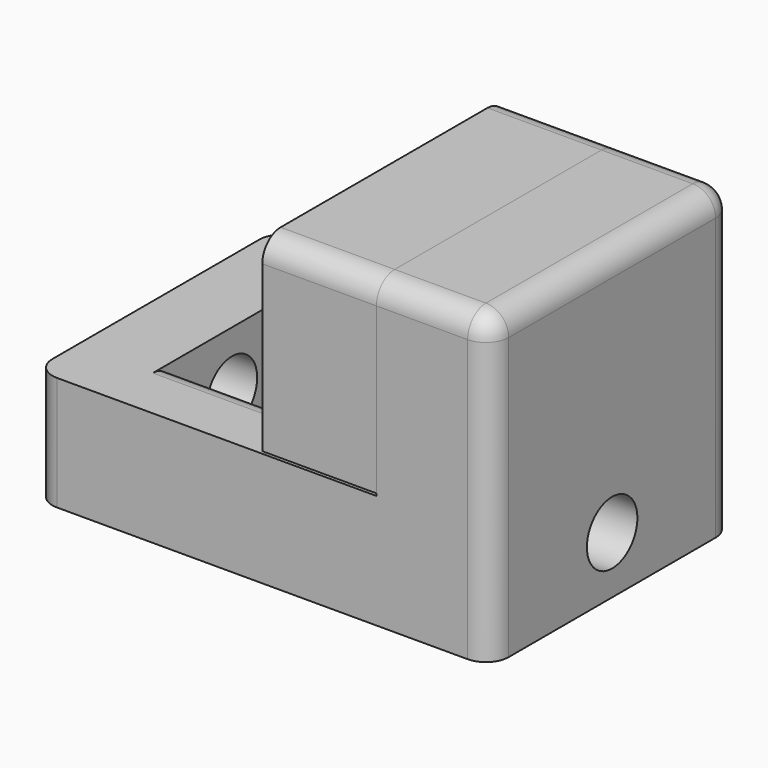
from build123d import *

# Parameters (mm, degrees)
F0_W      = 60
F0_H      = 40
F1_DEPTH  = 15
F2_W      = 15
F2_H      = 40
F3_DEPTH  = 25
F4_W      = 35
F4_H      = 20
F5_DEPTH  = 15.001
F6_R      = 4.15
F7_DEPTH  = 60.001
F9_DEPTH  = 15
F11_DEPTH = 30.001
F12_R     = 3.5
F13_DEPTH = 30.001
F14_SIZE  = 2
F15_R     = 3
F15_2_R   = 3


with BuildPart() as f1:
    # F0 (on Top) → F1 (new body)
    with BuildSketch(Plane.XY):
        with Locations((-30, 0)):
            Rectangle(F0_W, F0_H)
    extrude(amount=F1_DEPTH)

    # F2 (on face) → F3 (join)
    with BuildSketch(Plane.XY.offset(15)):
        with Locations((-7.5, 0)):
            Rectangle(F2_W, F2_H)
    extrude(amount=F3_DEPTH)

    # F4 (on face) → F5 (cut, through all)
    with BuildSketch(Plane.XY.offset(15)):
        with Locations((-32.5, 0)):
            Rectangle(F4_W, F4_H)
    extrude(amount=-F5_DEPTH, mode=Mode.SUBTRACT)

    # F6 (on face) → F7 (cut, through all)
    with BuildSketch(Plane(origin=(-60, 0, 0), x_dir=(0, -1, 0), z_dir=(-1, 0, 0))):
        with Locations((0, 7.5)):
            Circle(F6_R)
    extrude(amount=-F7_DEPTH, mode=Mode.SUBTRACT)

    # F15
    f15_edges = [f1.edges().sort_by_distance(p)[0] for p in [
        (0, -20, 20),
        (-7.5, -20, 40),
        (0, 0, 40),
        (0, 20, 20),
        (-7.5, 20, 40),
        (-60, -20, 7.5),
        (-60, 20, 7.5),
        (-32.5, -10, 15),
        (-32.5, 10, 15),
    ]]
    fillet(f15_edges, radius=F15_R)


with BuildPart() as f9:
    # F8 (on face) → F9 (new body)
    with BuildSketch(Plane(origin=(-15, 0, 0), x_dir=(0, -1, 0), z_dir=(-1, 0, 0))):
        Polygon((20, 40), (-20, 40), (-20, 15), (-10, 15), (-10, 0), (10, 0), (10, 15), (20, 15), align=None)
    extrude(amount=F9_DEPTH)

    # F10 (on face) → F11 (cut, through all)
    with BuildSketch(Plane(origin=(-30, 0, 0), x_dir=(0, -1, 0), z_dir=(-1, 0, 0))):
        Polygon((-9.7, 15.3), (-20, 15.3), (-20, 15), (-10, 15), (-10, 0), (-9.7, 0), align=None)
        Polygon((9.7, 15.3), (9.7, 0), (10, 0), (10, 15), (20, 15), (20, 15.3), align=None)
    extrude(amount=-F11_DEPTH, mode=Mode.SUBTRACT)

    # F12 (on face) → F13 (cut, through all)
    with BuildSketch(Plane(origin=(-30, 0, 0), x_dir=(0, -1, 0), z_dir=(-1, 0, 0))):
        with Locations((0, 7.5)):
            Circle(F12_R)
    extrude(amount=-F13_DEPTH, mode=Mode.SUBTRACT)

    # F14
    f14_edges = [f9.edges().sort_by_distance(p)[0] for p in [
        (-30, 3.5, 7.5),
        (-15, 3.5, 7.5),
    ]]
    chamfer(f14_edges, length=F14_SIZE)

    # F15#2
    f15_2_edges = [f9.edges().sort_by_distance(p)[0] for p in [
        (-22.5, -20, 40),
        (-22.5, 20, 40),
    ]]
    fillet(f15_2_edges, radius=F15_2_R)


solid = Compound([f1.part, f9.part])
